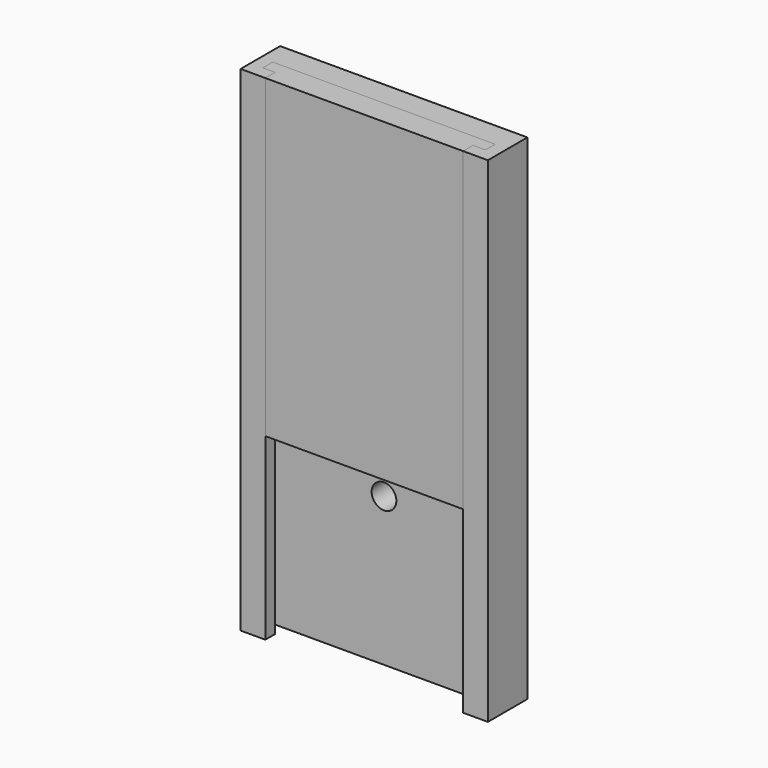
from build123d import *

# Parameters (mm, degrees)
F1_DEPTH      = 280
F1_DEPTH_BACK = 120
F2_R          = 10
F3_DEPTH      = 20
F5_DEPTH      = 255


with BuildPart() as f1:
    # F0 (on Top) → F1 (new body, two sides)
    with BuildSketch(Plane.XY) as f1_sk:
        Polygon((100, 40), (0, 40), (-100, 40), (-100, 0), (-80, 0), (-80, 10), (-90, 10), (-90, 20), (0, 20), (90, 20), (90, 10), (80, 10), (80, 0), (100, 0), align=None)
        Polygon((100, 40), (0, 40), (-100, 40), (-100, 0), (-80, 0), (-80, 10), (-90, 10), (-90, 20), (0, 20), (90, 20), (90, 10), (80, 10), (80, 0), (100, 0), align=None)
    extrude(amount=F1_DEPTH)
    extrude(f1_sk.sketch, amount=-F1_DEPTH_BACK)

    # F2 (on face) → F3 (cut)
    with BuildSketch(Plane.XZ.offset(-20)):
        Circle(F2_R)
    extrude(amount=-F3_DEPTH, mode=Mode.SUBTRACT)


with BuildPart() as f5:
    # F4 (on face) → F5 (new body)
    with BuildSketch(Plane.XY.offset(280)):
        Polygon((-80, 10), (-80, 0), (80, 0), (80, 10), (90, 10), (90, 20), (-90, 20), (-90, 10), align=None)
    extrude(amount=-F5_DEPTH)


solid = Compound([f1.part, f5.part])
